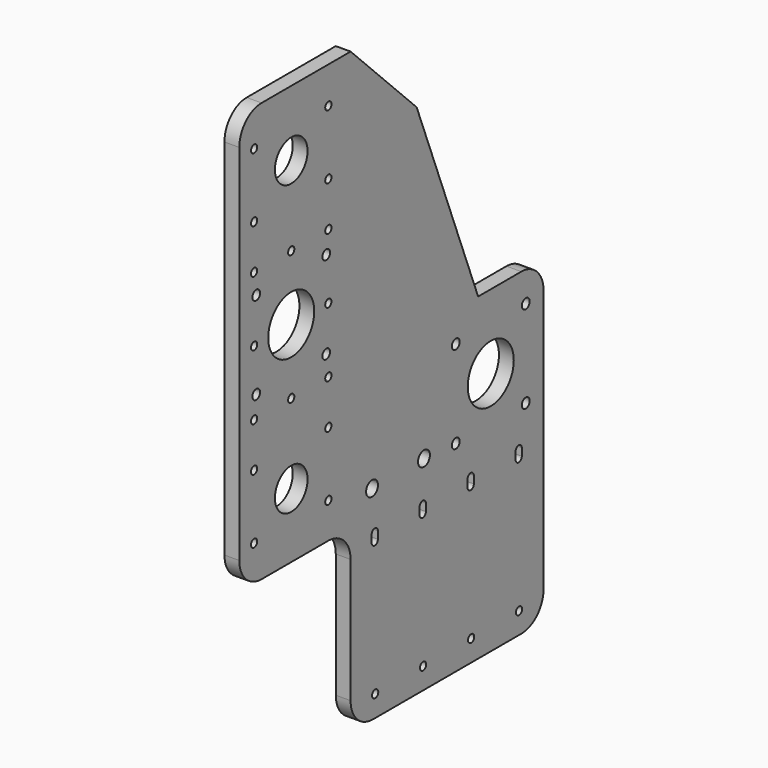
from build123d import *

# Parameters (mm, degrees)
F0_R     = 2.1
F0_R_2   = 11
F0_R_3   = 4
F0_R_4   = 2.65
F0_R_5   = 15.5
F0_R_6   = 2.6
F1_DEPTH = 8


with BuildPart() as f1:
    # F0 (on Right) → F1 (new body)
    with BuildSketch(Plane.YZ):
        with BuildLine():
            ThreePointArc((0, -5), (4.393398, -15.606602), (15, -20))
            Line((15, -20), (115, -20))
            ThreePointArc((115, -20), (125.606602, -15.606602), (130, -5))
            Line((130, -5), (130, 136.83))
            ThreePointArc((130, 136.83), (125.606602, 147.436602), (115, 151.83))
            Line((115, 151.83), (85.92, 151.83))
            Line((85.92, 151.83), (44.487871, 258.512129))
            Line((44.487871, 258.512129), (0, 303))
            Line((0, 303), (-60, 303))
            ThreePointArc((-60, 303), (-70.606602, 298.606602), (-75, 288))
            Line((-75, 288), (-75, 92))
            ThreePointArc((-75, 92), (-70.606602, 81.393398), (-60, 77))
            Line((-60, 77), (-15, 77))
            ThreePointArc((-15, 77), (-4.393398, 72.606602), (0, 62))
            Line((0, 62), (0, -5))
        make_face()
        with Locations((16.54, -8.5)):
            Circle(F0_R, mode=Mode.SUBTRACT)
        with Locations((-65, 96.141)):
            Circle(F0_R, mode=Mode.SUBTRACT)
        with Locations((-65, 130.8)):
            Circle(F0_R, mode=Mode.SUBTRACT)
        with Locations((-40, 111.83)):
            Circle(F0_R_2, mode=Mode.SUBTRACT)
        with Locations((-15, 96.141)):
            Circle(F0_R, mode=Mode.SUBTRACT)
        with BuildLine():
            Line((14.19, 64.078), (14.19, 68.078))
            ThreePointArc((14.19, 68.078), (16.29, 70.178), (18.39, 68.078))
            Line((18.39, 68.078), (18.39, 64.078))
            ThreePointArc((18.39, 64.078), (16.29, 61.978), (14.19, 64.078))
        make_face(mode=Mode.SUBTRACT)
        with Locations((14.43, 89.83)):
            Circle(F0_R_3, mode=Mode.SUBTRACT)
        with Locations((-15, 130.8)):
            Circle(F0_R, mode=Mode.SUBTRACT)
        with Locations((48.86, -8.5)):
            Circle(F0_R, mode=Mode.SUBTRACT)
        with Locations((81.18, -8.5)):
            Circle(F0_R, mode=Mode.SUBTRACT)
        with Locations((113.5, -8.5)):
            Circle(F0_R, mode=Mode.SUBTRACT)
        with BuildLine():
            Line((46.51, 64.078), (46.51, 68.078))
            ThreePointArc((46.51, 68.078), (48.61, 70.178), (50.71, 68.078))
            Line((50.71, 68.078), (50.71, 64.078))
            ThreePointArc((50.71, 64.078), (48.61, 61.978), (46.51, 64.078))
        make_face(mode=Mode.SUBTRACT)
        with Locations((49.43, 89.83)):
            Circle(F0_R_3, mode=Mode.SUBTRACT)
        with Locations((70.86, 88.26)):
            Circle(F0_R_4, mode=Mode.SUBTRACT)
        with Locations((70.86, 135.4)):
            Circle(F0_R_4, mode=Mode.SUBTRACT)
        with BuildLine():
            Line((78.83, 64.078), (78.83, 68.078))
            ThreePointArc((78.83, 68.078), (80.93, 70.178), (83.03, 68.078))
            Line((83.03, 68.078), (83.03, 64.078))
            ThreePointArc((83.03, 64.078), (80.93, 61.978), (78.83, 64.078))
        make_face(mode=Mode.SUBTRACT)
        with BuildLine():
            Line((111.15, 64.078), (111.15, 68.078))
            ThreePointArc((111.15, 68.078), (113.25, 70.178), (115.35, 68.078))
            Line((115.35, 68.078), (115.35, 64.078))
            ThreePointArc((115.35, 64.078), (113.25, 61.978), (111.15, 64.078))
        make_face(mode=Mode.SUBTRACT)
        with Locations((118, 88.26)):
            Circle(F0_R_4, mode=Mode.SUBTRACT)
        with Locations((94.43, 111.83)):
            Circle(F0_R_5, mode=Mode.SUBTRACT)
        with Locations((118, 135.4)):
            Circle(F0_R_4, mode=Mode.SUBTRACT)
        with Locations((-65, 154.72)):
            Circle(F0_R, mode=Mode.SUBTRACT)
        with Locations((-63.57, 166.15)):
            Circle(F0_R_6, mode=Mode.SUBTRACT)
        with Locations((-40, 154.72)):
            Circle(F0_R, mode=Mode.SUBTRACT)
        with Locations((-65, 189.72)):
            Circle(F0_R, mode=Mode.SUBTRACT)
        with Locations((-63.57, 213.29)):
            Circle(F0_R_6, mode=Mode.SUBTRACT)
        with Locations((-40, 189.72)):
            Circle(F0_R_5, mode=Mode.SUBTRACT)
        with Locations((-15, 154.72)):
            Circle(F0_R, mode=Mode.SUBTRACT)
        with Locations((-16.43, 166.15)):
            Circle(F0_R_6, mode=Mode.SUBTRACT)
        with Locations((-15, 189.72)):
            Circle(F0_R, mode=Mode.SUBTRACT)
        with Locations((-16.43, 213.29)):
            Circle(F0_R_6, mode=Mode.SUBTRACT)
        with Locations((-65, 224.72)):
            Circle(F0_R, mode=Mode.SUBTRACT)
        with Locations((-65, 248.64)):
            Circle(F0_R, mode=Mode.SUBTRACT)
        with Locations((-40, 224.72)):
            Circle(F0_R, mode=Mode.SUBTRACT)
        with Locations((-65, 283.299)):
            Circle(F0_R, mode=Mode.SUBTRACT)
        with Locations((-40, 267.61)):
            Circle(F0_R_2, mode=Mode.SUBTRACT)
        with Locations((-15, 224.72)):
            Circle(F0_R, mode=Mode.SUBTRACT)
        with Locations((-15, 248.64)):
            Circle(F0_R, mode=Mode.SUBTRACT)
        with Locations((-15, 283.299)):
            Circle(F0_R, mode=Mode.SUBTRACT)
    extrude(amount=F1_DEPTH)


solid = f1.part
